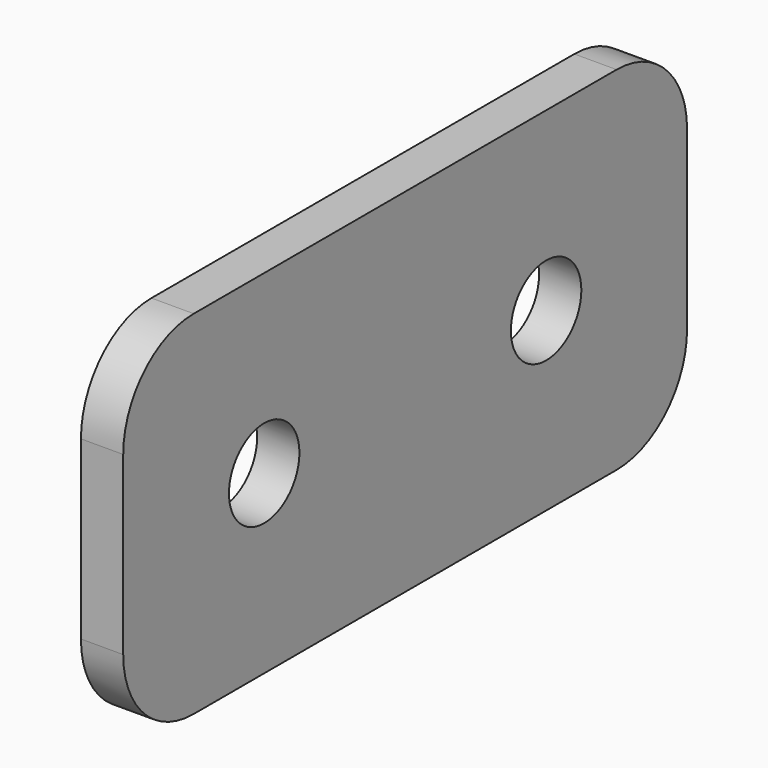
from build123d import *

# Parameters (mm, degrees)
F0_R     = 3.175
F1_DEPTH = 3.048


with BuildPart() as f1:
    # F0 (on Right) → F1 (new body)
    with BuildSketch(Plane.YZ):
        with BuildLine():
            ThreePointArc((50.8, 6.35), (48.940128, 10.840128), (44.45, 12.7))
            Line((44.45, 12.7), (6.35, 12.7))
            ThreePointArc((6.35, 12.7), (1.859872, 10.840128), (0, 6.35))
            Line((0, 6.35), (0, -6.35))
            ThreePointArc((0, -6.35), (1.859872, -10.840128), (6.35, -12.7))
            Line((6.35, -12.7), (44.45, -12.7))
            ThreePointArc((44.45, -12.7), (48.940128, -10.840128), (50.8, -6.35))
            Line((50.8, -6.35), (50.8, 6.35))
        make_face()
        with Locations((12.7, 0)):
            Circle(F0_R, mode=Mode.SUBTRACT)
        with Locations((38.1, 0)):
            Circle(F0_R, mode=Mode.SUBTRACT)
    extrude(amount=F1_DEPTH)


solid = f1.part
